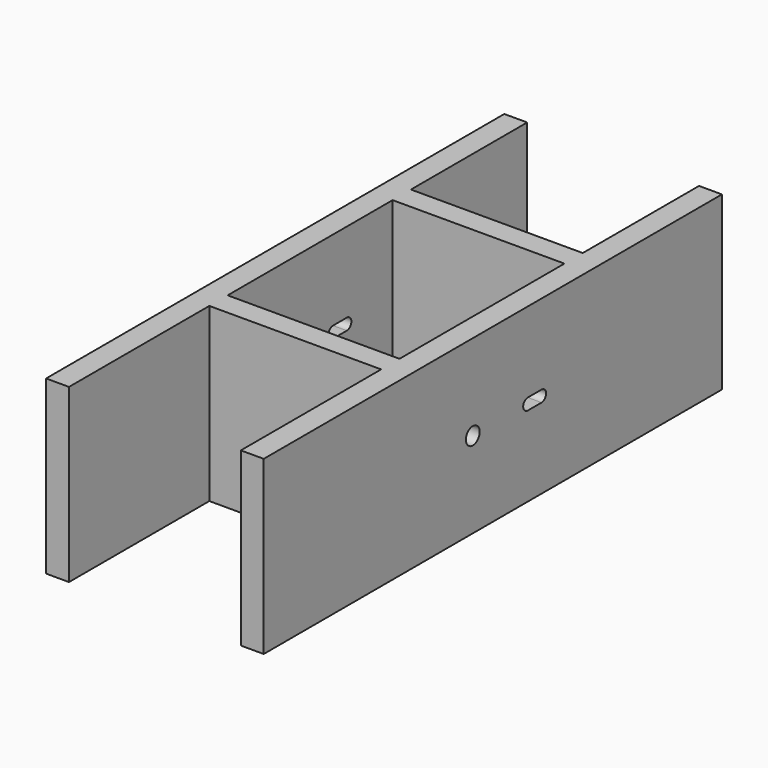
from build123d import *

# Parameters (mm, degrees)
F0_W     = 20
F0_H     = 126.8572214618
F0_H_2   = 153.1427785382
F0_W_2   = 150
F0_H_3   = 20
F1_DEPTH = 150
F2_R     = 7.5
F3_DEPTH = 412


with BuildPart() as f1:
    # F0 (on Top) → F1 (new body)
    with BuildSketch(Plane.XY):
        with Locations((-85, 173.4286107309)):
            Rectangle(F0_W, F0_H)
        Polygon((-75, -90), (-75, 90), (-75, 110), (-95, 110), (-95, -110), (-75, -110), align=None)
        with Locations((-85, -186.5713892691)):
            Rectangle(F0_W, F0_H_2)
        with Locations((0, 100)):
            Rectangle(F0_W_2, F0_H_3)
        with Locations((0, -100)):
            Rectangle(F0_W_2, F0_H_3)
        with Locations((85, 173.4286107309)):
            Rectangle(F0_W, F0_H)
        Polygon((75, 110), (75, 90), (75, -90), (75, -110), (95, -110), (95, 110), align=None)
        with Locations((85, -186.5713892691)):
            Rectangle(F0_W, F0_H_2)
        Polygon((-75, -90), (-75, 90), (-75, 110), (-95, 110), (-95, -110), (-75, -110), align=None)
        Polygon((75, 110), (75, 90), (75, -90), (75, -110), (95, -110), (95, 110), align=None)
    extrude(amount=F1_DEPTH)

    # F2 (on face) → F3 (cut)
    with BuildSketch(Plane.YZ.offset(95)):
        with Locations((-35, 75)):
            Circle(F2_R)
        with BuildLine():
            Line((40, 80), (25, 80))
            ThreePointArc((25, 80), (20, 75), (25, 70))
            Line((25, 70), (40, 70))
            ThreePointArc((40, 70), (45, 75), (40, 80))
        make_face()
    extrude(amount=-F3_DEPTH, mode=Mode.SUBTRACT)


solid = f1.part
